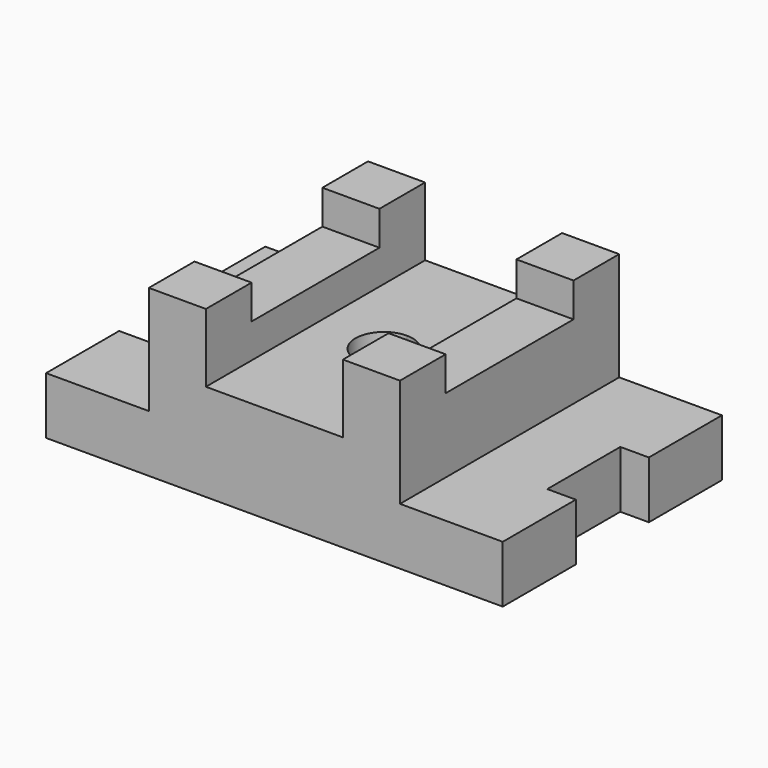
from build123d import *

# Parameters (mm, degrees)
F1_DEPTH = 31.75
F0_W     = 31.75
F0_H     = 31.75
F2_DEPTH = 92.075
F0_H_2   = 88.9
F3_DEPTH = 73.025
F4_DEPTH = 53.975
F5_DEPTH = 53.975
F6_DEPTH = 92.075
F7_DEPTH = 73.025
F8_DEPTH = 31.75


with BuildPart() as f1:
    # F0 (on Top) → F1 (new body)
    with BuildSketch(Plane.XY):
        Polygon((-57.15, 0), (0, 0), (0, 50.8), (-15.875, 50.8), (-15.875, 101.6), (0, 101.6), (0, 152.4), (-57.15, 152.4), (-57.15, 120.65), (-57.15, 31.75), align=None)
    extrude(amount=F1_DEPTH)

    # F0 (on Top) → F2 (join)
    with BuildSketch(Plane.XY):
        with Locations((-73.025, 136.525)):
            Rectangle(F0_W, F0_H)
        with Locations((-73.025, 15.875)):
            Rectangle(F0_W, F0_H)
    extrude(amount=F2_DEPTH)

    # F0 (on Top) → F3 (join)
    with BuildSketch(Plane.XY):
        with Locations((-73.025, 76.2)):
            Rectangle(F0_W, F0_H_2)
    extrude(amount=F3_DEPTH)

    # F0 (on Top) → F4 (join)
    with BuildSketch(Plane.XY):
        with BuildLine():
            Line((-127, 0), (-88.9, 0))
            Line((-88.9, 0), (-88.9, 31.75))
            Line((-88.9, 31.75), (-88.9, 120.65))
            Line((-88.9, 120.65), (-88.9, 152.4))
            Line((-88.9, 152.4), (-127, 152.4))
            Line((-127, 152.4), (-127, 92.075))
            ThreePointArc((-127, 92.075), (-115.7746798487, 87.4253201513), (-111.125, 76.2))
            ThreePointArc((-111.125, 76.2), (-115.7746798487, 64.9746798487), (-127, 60.325))
            Line((-127, 60.325), (-127, 0))
        make_face()
    extrude(amount=F4_DEPTH)

    # F0 (on Top) → F5 (join)
    with BuildSketch(Plane.XY):
        with BuildLine():
            Line((-165.1, 0), (-127, 0))
            Line((-127, 0), (-127, 60.325))
            ThreePointArc((-127, 60.325), (-142.875, 76.2), (-127, 92.075))
            Line((-127, 92.075), (-127, 152.4))
            Line((-127, 152.4), (-165.1, 152.4))
            Line((-165.1, 152.4), (-165.1, 120.65))
            Line((-165.1, 120.65), (-165.1, 31.75))
            Line((-165.1, 31.75), (-165.1, 0))
        make_face()
    extrude(amount=F5_DEPTH)

    # F0 (on Top) → F6 (join)
    with BuildSketch(Plane.XY):
        with Locations((-180.975, 136.525)):
            Rectangle(F0_W, F0_H)
        with Locations((-180.975, 15.875)):
            Rectangle(F0_W, F0_H)
    extrude(amount=F6_DEPTH)

    # F0 (on Top) → F7 (join)
    with BuildSketch(Plane.XY):
        with Locations((-180.975, 76.2)):
            Rectangle(F0_W, F0_H_2)
    extrude(amount=F7_DEPTH)

    # F0 (on Top) → F8 (join)
    with BuildSketch(Plane.XY):
        Polygon((-254, 0), (-196.85, 0), (-196.85, 31.75), (-196.85, 120.65), (-196.85, 152.4), (-254, 152.4), (-254, 101.6), (-238.125, 101.6), (-238.125, 50.8), (-254, 50.8), align=None)
    extrude(amount=F8_DEPTH)


solid = f1.part
